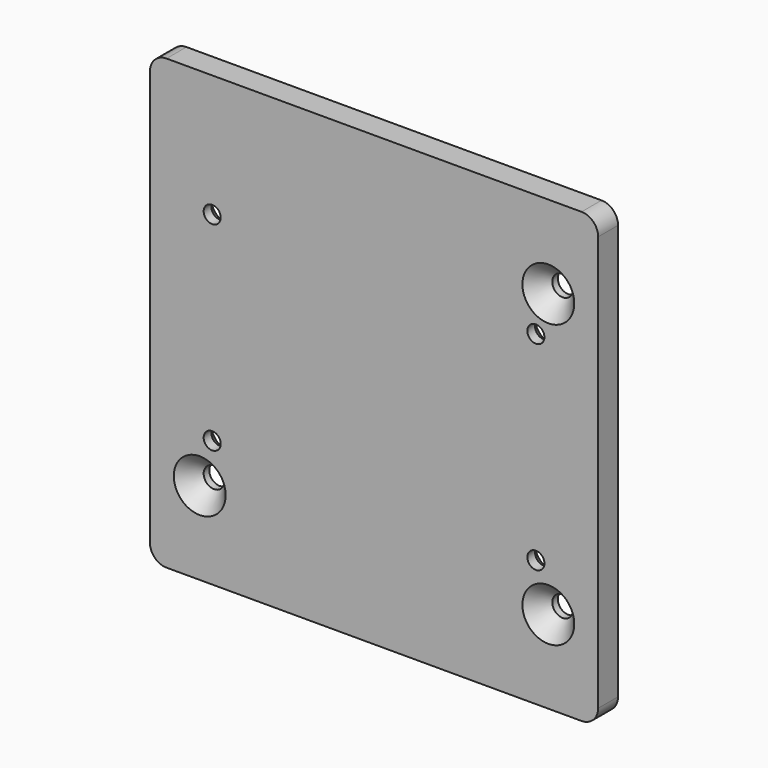
from build123d import *

# Parameters (mm, degrees)
F1_DEPTH       = 4.7625
F3_D           = 7.9375
F3_CSINK_D     = 19.8374
F3_CSINK_ANGLE = 82
F5_D           = 6.5278
F5_CSINK_D     = 16.6624
F5_CSINK_ANGLE = 82


with BuildPart() as f1:
    # F0 (on Front) → F1 (new body, symmetric)
    with BuildSketch(Plane.XZ):
        with BuildLine():
            ThreePointArc((85.725, 79.375), (83.8651280605, 83.8651280605), (79.375, 85.725))
            Line((79.375, 85.725), (-79.375, 85.725))
            ThreePointArc((-79.375, 85.725), (-83.8651280605, 83.8651280605), (-85.725, 79.375))
            Line((-85.725, 79.375), (-85.725, -79.375))
            ThreePointArc((-85.725, -79.375), (-83.8651280605, -83.8651280605), (-79.375, -85.725))
            Line((-79.375, -85.725), (79.375, -85.725))
            ThreePointArc((79.375, -85.725), (83.8651280605, -83.8651280605), (85.725, -79.375))
            Line((85.725, -79.375), (85.725, 79.375))
        make_face()
    extrude(amount=F1_DEPTH, both=True)

    # F3 (through all)
    with Locations(Plane.XZ.offset(4.7625)):
        with Locations((66.675, 53.975), (-66.675, -53.975), (66.675, -53.975)):
            CounterSinkHole(F3_D / 2, F3_CSINK_D / 2, counter_sink_angle=F3_CSINK_ANGLE)

    # F5 (through all)
    with Locations(Plane(origin=(0, 4.7625, 0), x_dir=(-1, 0, 0), z_dir=(0, 1, 0))):
        with Locations((-61.9125, 38.89375), (61.9125, 38.89375), (61.9125, -37.30625), (-61.9125, -37.30625)):
            CounterSinkHole(F5_D / 2, F5_CSINK_D / 2, counter_sink_angle=F5_CSINK_ANGLE)


solid = f1.part
